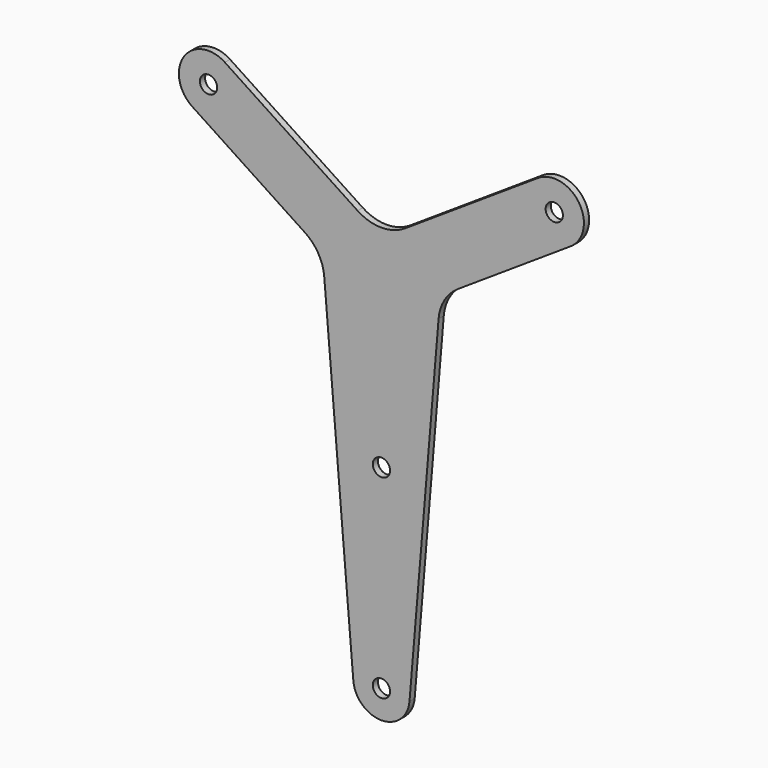
from build123d import *

# Parameters (mm, degrees)
F0_R     = 2
F1_DEPTH = 1.5
F2_R     = 10


with BuildPart() as f1:
    # F0 (on Front) → F1 (new body)
    with BuildSketch(Plane.XZ):
        with BuildLine():
            Line((-13.6372, 84.960006), (-6.5, 0))
            ThreePointArc((-6.5, 0), (0, -5.976852), (6.5, 0))
            Line((6.5, 0), (13.6372, 84.960006))
            Line((13.6372, 84.960006), (43.775347, 104.815556))
            ThreePointArc((43.775347, 104.815556), (45.730487, 114.32139), (36.224653, 116.27653))
            Line((36.224653, 116.27653), (0, 92.411081))
            Line((0, 92.411081), (-36.224653, 116.27653))
            ThreePointArc((-36.224653, 116.27653), (-45.730487, 114.32139), (-43.775347, 104.815556))
            Line((-43.775347, 104.815556), (-13.6372, 84.960006))
        make_face()
        with Locations((0, 0.546043)):
            Circle(F0_R, mode=Mode.SUBTRACT)
        with Locations((0, 45.546043)):
            Circle(F0_R, mode=Mode.SUBTRACT)
        with Locations((-40, 110.546043)):
            Circle(F0_R, mode=Mode.SUBTRACT)
        with Locations((40, 110.546043)):
            Circle(F0_R, mode=Mode.SUBTRACT)
    extrude(amount=F1_DEPTH)

    # F2
    f2_edges = [f1.edges().sort_by_distance(p)[0] for p in [
        (0, -0.75, 92.411081),
        (-13.6372, -0.75, 84.960006),
        (13.6372, -0.75, 84.960006),
    ]]
    fillet(f2_edges, radius=F2_R)


solid = f1.part
